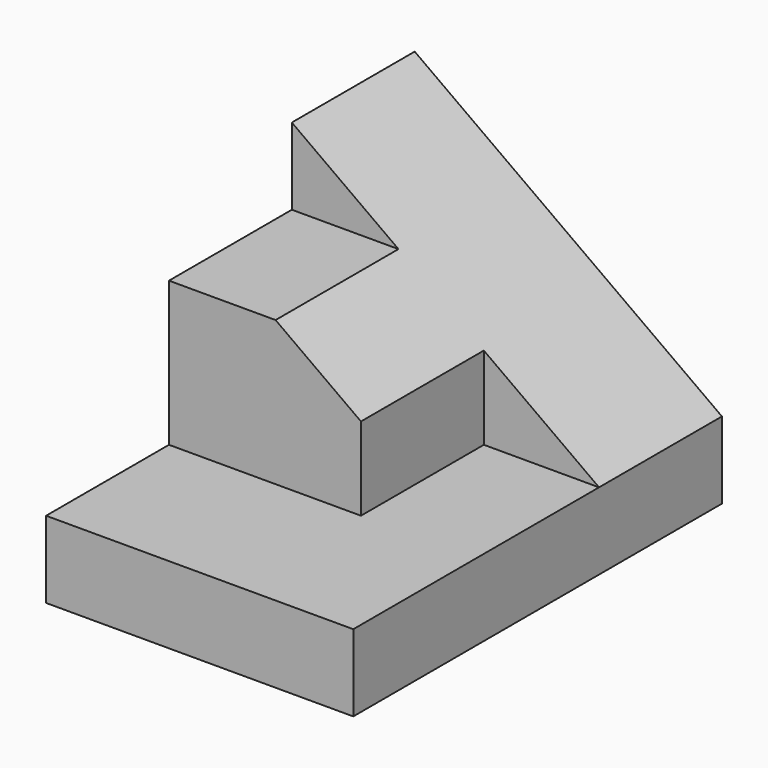
from build123d import *

# Parameters (mm, degrees)
F0_W     = 25.4
F0_H     = 6.35
F1_DEPTH = 38.1
F3_DEPTH = 12.7
F5_DEPTH = 12.7
F7_DEPTH = 12.7


with BuildPart() as f1:
    # F0 (on Front) → F1 (new body)
    with BuildSketch(Plane.XZ):
        with Locations((12.7, 3.175)):
            Rectangle(F0_W, F0_H)
        Polygon((0, 24.647629), (0, 6.35), (25.4, 6.35), align=None)
    extrude(amount=F1_DEPTH)

    # F2 (on face) → F3 (cut)
    with BuildSketch(Plane.XZ.offset(38.1)):
        Polygon((0, 6.35), (25.4, 6.35), (0, 24.647629), align=None)
    extrude(amount=-F3_DEPTH, mode=Mode.SUBTRACT)

    # F4 (on face) → F5 (cut)
    with BuildSketch(Plane.XZ.offset(25.4)):
        Polygon((8.814803, 18.297629), (0, 24.647629), (0, 18.297629), align=None)
    extrude(amount=-F5_DEPTH, mode=Mode.SUBTRACT)

    # F6 (on face) → F7 (cut)
    with BuildSketch(Plane.XZ.offset(25.4)):
        Polygon((15.875, 6.35), (25.4, 6.35), (15.875, 13.211611), align=None)
    extrude(amount=-F7_DEPTH, mode=Mode.SUBTRACT)


solid = f1.part
